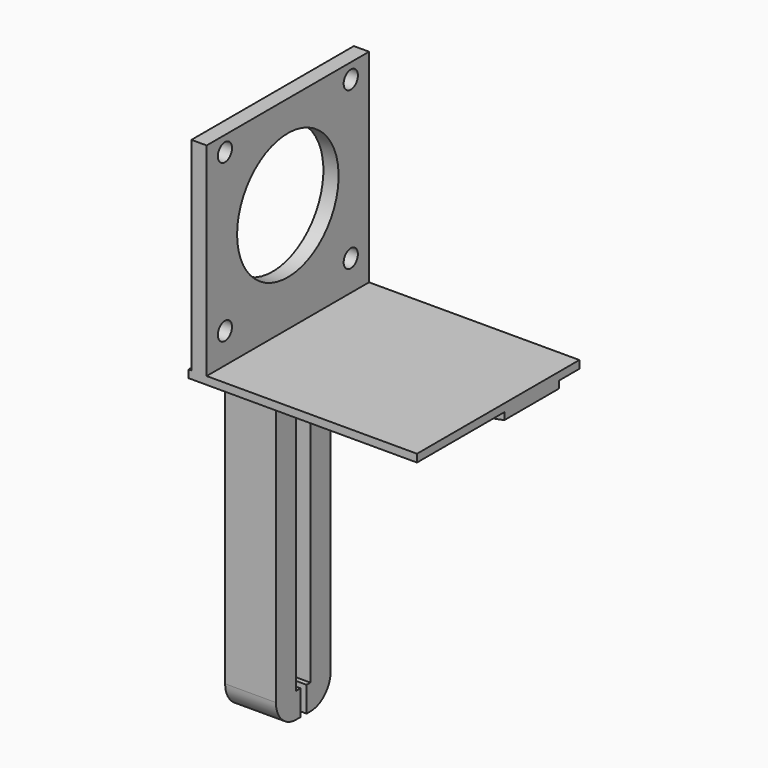
from build123d import *

# Parameters (mm, degrees)
F1_DEPTH      = 10
F2_W          = 1.5
F2_H          = 5
F3_DEPTH      = 11
F4_W          = 3
F4_H          = 40
F5_DEPTH      = 35
F5_DEPTH_BACK = 5
F6_W          = 13.5
F6_H          = 10
F7_DEPTH      = 45
F9_DEPTH      = 15
F10_R         = 1.75
F10_R_2       = 12.5
F11_DEPTH     = 25
F12_W         = 10
F12_H         = 21.5
F13_DEPTH     = 25


with BuildPart() as f1:
    # F0 (on Right) → F1 (new body)
    with BuildSketch(Plane.YZ):
        with BuildLine():
            Line((-8.5, 0), (-5, 0))
            ThreePointArc((-5, 0), (-1.464466, 1.464466), (0, 5))
            Line((0, 5), (0, 70))
            Line((0, 70), (-13.5, 70))
            Line((-13.5, 70), (-13.5, 5))
            ThreePointArc((-13.5, 5), (-12.035534, 1.464466), (-8.5, 0))
        make_face()
    extrude(amount=F1_DEPTH)

    # F2 (on face) → F3 (cut)
    with BuildSketch(Plane.YZ.offset(10)):
        Polygon((-5, 55.5), (-8.5, 55.5), (-8.5, 5), (-7.441577, 5), (-5.941577, 5), (-5, 5), align=None)
        with Locations((-6.691577, 2.5)):
            Rectangle(F2_W, F2_H)
    extrude(amount=-F3_DEPTH, mode=Mode.SUBTRACT)

    # F4 (on Front) → F5 (join, two sides)
    with BuildSketch(Plane.XZ) as f5_sk:
        Polygon((10.552509, 71.532604), (0, 71.532604), (0, 70), (55, 70), (55, 71.532604), (13.552509, 71.532604), align=None)
        with Locations((12.052509, 91.532604)):
            Rectangle(F4_W, F4_H)
    extrude(amount=F5_DEPTH)
    extrude(f5_sk.sketch, amount=-F5_DEPTH_BACK)

    # F6 (on face) → F7 (join, through all)
    with BuildSketch(Plane.YZ.offset(10)):
        with Locations((-6.75, 65)):
            Rectangle(F6_W, F6_H)
    extrude(amount=F7_DEPTH)

    # F8 (on face) → F9 (cut)
    with BuildSketch(Plane.XZ.offset(13.5)):
        Polygon((55, 68.611123), (10, 60), (55, 60), align=None)
    extrude(amount=-F9_DEPTH, mode=Mode.SUBTRACT)

    # F10 (on face) → F11 (cut)
    with BuildSketch(Plane(origin=(10.552509, 0, 0), x_dir=(0, -1, 0), z_dir=(-1, 0, 0))):
        with Locations((-0.5, 108.532604)):
            Circle(F10_R)
        with Locations((30.5, 108.532604)):
            Circle(F10_R)
        with Locations((30.5, 77.532604)):
            Circle(F10_R)
        with Locations((-0.5, 77.532604)):
            Circle(F10_R)
        with Locations((15, 93.032604)):
            Circle(F10_R_2)
    extrude(amount=-F11_DEPTH, mode=Mode.SUBTRACT)

    # F12 (on face) → F13 (cut)
    with BuildSketch(Plane.XY.offset(71.532604)):
        with Locations((5, -24.25)):
            Rectangle(F12_W, F12_H)
    extrude(amount=-F13_DEPTH, mode=Mode.SUBTRACT)


solid = f1.part
